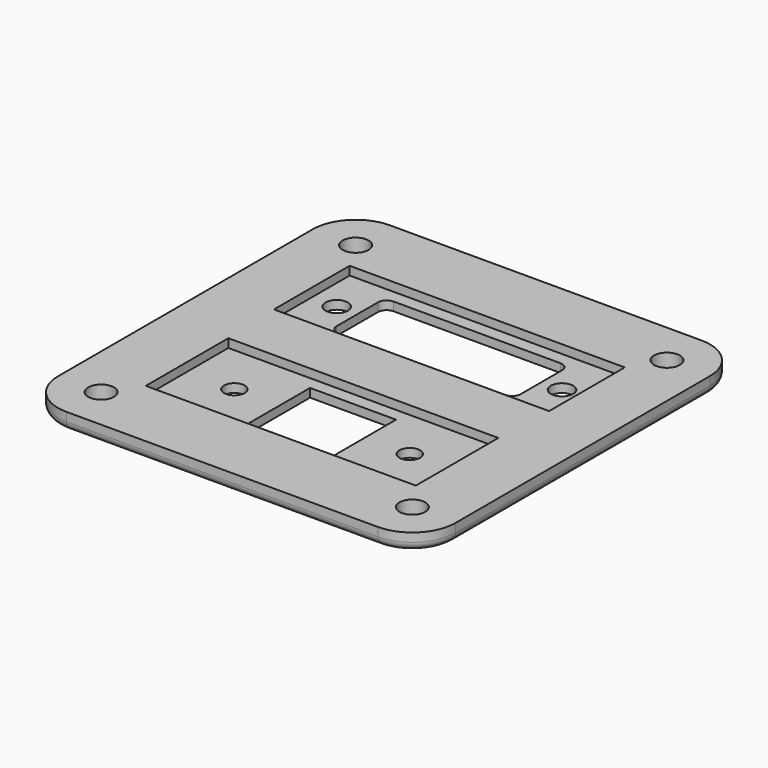
from build123d import *

# Parameters (mm, degrees)
F0_W     = 58.674
F0_H     = 59.69
F0_R     = 1.524
F0_W_2   = 12.7
F0_H_2   = 11.43
F0_R_2   = 1.651
F0_W_3   = 27.178
F0_H_3   = 10.16
F1_DEPTH = 1.27
F2_W     = 58.674
F2_H     = 59.69
F2_W_2   = 39.878
F2_H_2   = 15.24
F2_W_3   = 40.64
F2_H_3   = 13.97
F3_DEPTH = 1.27
F4_R     = 6.35
F5_R     = 1.27
F6_R     = 1.905
F7_DEPTH = 2.54


with BuildPart() as f1:
    # F0 (on Top) → F1 (new body)
    with BuildSketch(Plane.XY):
        with Locations((0, -12.065)):
            Rectangle(F0_W, F0_H)
        with Locations((-12.954, -23.495)):
            Circle(F0_R, mode=Mode.SUBTRACT)
        with Locations((0, -23.495)):
            Rectangle(F0_W_2, F0_H_2, mode=Mode.SUBTRACT)
        with Locations((12.954, -23.495)):
            Circle(F0_R, mode=Mode.SUBTRACT)
        with Locations((-16.637, 0)):
            Circle(F0_R_2, mode=Mode.SUBTRACT)
        Rectangle(F0_W_3, F0_H_3, mode=Mode.SUBTRACT)
        with Locations((16.637, 0)):
            Circle(F0_R_2, mode=Mode.SUBTRACT)
    extrude(amount=F1_DEPTH)

    # F2 (on face) → F3 (join)
    with BuildSketch(Plane.XY.offset(1.27)):
        with Locations((0, -12.065)):
            Rectangle(F2_W, F2_H)
        with Locations((0, -23.495)):
            Rectangle(F2_W_2, F2_H_2, mode=Mode.SUBTRACT)
        Rectangle(F2_W_3, F2_H_3, mode=Mode.SUBTRACT)
    extrude(amount=F3_DEPTH)

    # F4
    f4_edges = [f1.edges().sort_by_distance(p)[0] for p in [
        (-29.337, -41.91, 1.27),
        (29.337, 17.78, 1.27),
        (29.337, -41.91, 1.27),
        (-29.337, 17.78, 1.27),
    ]]
    fillet(f4_edges, radius=F4_R)

    # F5
    f5_edges = [f1.edges().sort_by_distance(p)[0] for p in [
        (-27.477128, -40.050128, 0),
        (-13.589, 5.08, 0.635),
        (-13.589, -5.08, 0.635),
        (13.589, -5.08, 0.635),
        (13.589, 5.08, 0.635),
    ]]
    fillet(f5_edges, radius=F5_R)

    # F6 (on face) → F7 (cut, through all)
    with BuildSketch(Plane.XY.offset(2.54)):
        with Locations((-22.987, 11.43)):
            Circle(F6_R)
        with Locations((22.987, 11.43)):
            Circle(F6_R)
        with Locations((22.987, -35.56)):
            Circle(F6_R)
        with Locations((-22.987, -35.56)):
            Circle(F6_R)
    extrude(amount=-F7_DEPTH, mode=Mode.SUBTRACT)


solid = f1.part
